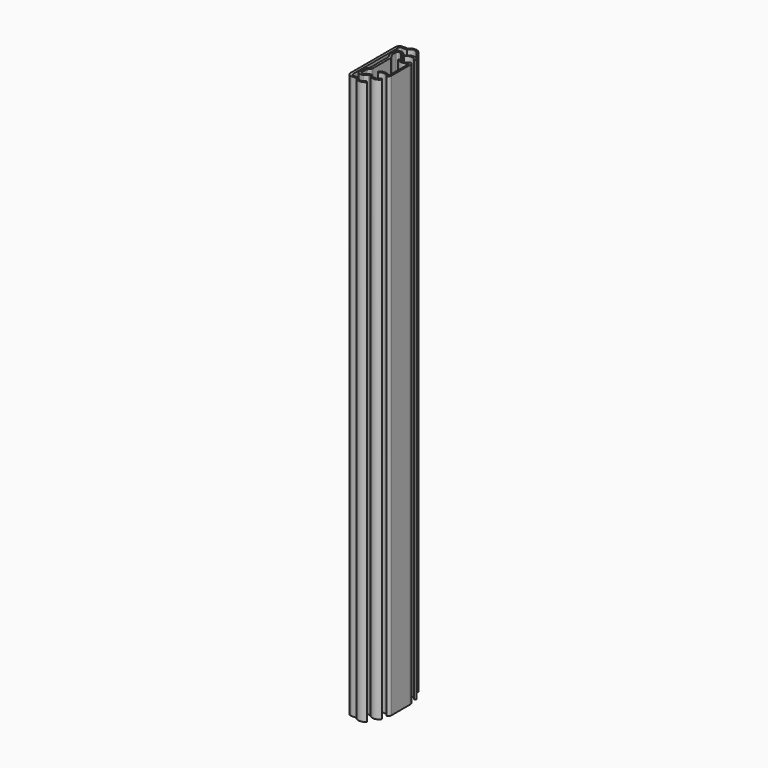
from build123d import *

# Parameters (mm, degrees)
F1_DEPTH = 250
F2_DEPTH = 250
F3_W     = 8.653239
F3_H     = 7.720554
F4_DEPTH = 5


with BuildPart() as f1:
    # F0 (on Top) → F1 (new body)
    with BuildSketch(Plane.XY):
        with BuildLine():
            Line((-137.309134, -0.924702), (-136.686638, -0.388667))
            ThreePointArc((-136.686638, -0.388667), (-139.111152, 0.734713), (-141.510949, -0.440541))
            Line((-141.510949, -0.440541), (-143.758833, -0.440541))
            ThreePointArc((-143.758833, -0.440541), (-145.03766, -0.991837), (-145.539865, -2.290726))
            Line((-145.539865, -2.290726), (-145.539865, -27.107602))
            ThreePointArc((-145.539865, -27.107602), (-145.03766, -28.406491), (-143.758833, -28.957787))
            Line((-143.758833, -28.957787), (-141.510949, -28.957787))
            ThreePointArc((-141.510949, -28.957787), (-139.111152, -30.133041), (-136.686638, -29.009661))
            Line((-136.686638, -29.009661), (-137.309134, -28.473626))
            ThreePointArc((-137.309134, -28.473626), (-139.359481, -29.417711), (-141.199708, -28.110506))
            Line((-141.199708, -28.110506), (-143.326551, -28.110506))
            ThreePointArc((-143.326551, -28.110506), (-144.088364, -27.748915), (-144.364044, -26.951979))
            Line((-144.364044, -26.951979), (-144.364044, -2.446349))
            ThreePointArc((-144.364044, -2.446349), (-144.088364, -1.649413), (-143.326551, -1.287822))
            Line((-143.326551, -1.287822), (-141.199708, -1.287822))
            ThreePointArc((-141.199708, -1.287822), (-139.359481, 0.019383), (-137.309134, -0.924702))
        make_face()
    extrude(amount=F1_DEPTH)


with BuildPart() as f2:
    # F0 (on Top) → F2 (new body)
    with BuildSketch(Plane.XY):
        with BuildLine():
            Line((-134.421453, -5.783599), (-133.850843, -5.230273))
            ThreePointArc((-133.850843, -5.230273), (-136.282789, -3.733067), (-138.848066, -4.988192))
            Line((-138.848066, -4.988192), (-139.310256, -4.988192))
            ThreePointArc((-139.310256, -4.988192), (-139.54019, -4.978449), (-139.748812, -4.88128))
            Line((-139.748812, -4.88128), (-141.006455, -3.833561))
            ThreePointArc((-141.006455, -3.833561), (-141.220469, -3.707043), (-141.45992, -3.640174))
            Line((-141.45992, -3.640174), (-142.493799, -3.640174))
            ThreePointArc((-142.493799, -3.640174), (-143.416023, -4.043703), (-143.745467, -4.994912))
            Line((-143.745467, -4.994912), (-143.745467, -7.343707))
            ThreePointArc((-143.745467, -7.343707), (-143.697942, -7.782221), (-143.492922, -8.17276))
            Line((-143.492922, -8.17276), (-142.810345, -9.37118))
            ThreePointArc((-142.810345, -9.37118), (-142.726242, -9.575669), (-142.70778, -9.796005))
            Line((-142.70778, -9.796005), (-142.70778, -19.602323))
            ThreePointArc((-142.70778, -19.602323), (-142.726242, -19.822659), (-142.810345, -20.027148))
            Line((-142.810345, -20.027148), (-143.492922, -21.225568))
            ThreePointArc((-143.492922, -21.225568), (-143.697942, -21.616107), (-143.745467, -22.054621))
            Line((-143.745467, -22.054621), (-143.745467, -24.403416))
            ThreePointArc((-143.745467, -24.403416), (-143.416023, -25.354625), (-142.493799, -25.758154))
            Line((-142.493799, -25.758154), (-141.45992, -25.758154))
            ThreePointArc((-141.45992, -25.758154), (-141.220469, -25.691284), (-141.006455, -25.564767))
            Line((-141.006455, -25.564767), (-139.748812, -24.517047))
            ThreePointArc((-139.748812, -24.517047), (-139.54019, -24.419879), (-139.310256, -24.410136))
            Line((-139.310256, -24.410136), (-138.848066, -24.410136))
            ThreePointArc((-138.848066, -24.410136), (-136.282789, -25.665261), (-133.850843, -24.168055))
            Line((-133.850843, -24.168055), (-134.421453, -23.614729))
            ThreePointArc((-134.421453, -23.614729), (-136.699606, -24.824974), (-138.953608, -23.570323))
            Line((-138.953608, -23.570323), (-139.452353, -23.570323))
            ThreePointArc((-139.452353, -23.570323), (-139.651642, -23.631075), (-139.821813, -23.751279))
            Line((-139.821813, -23.751279), (-140.999363, -24.75894))
            ThreePointArc((-140.999363, -24.75894), (-141.161457, -24.858468), (-141.34638, -24.903008))
            Line((-141.34638, -24.903008), (-142.075829, -24.903008))
            ThreePointArc((-142.075829, -24.903008), (-142.593578, -24.706761), (-142.810598, -24.197371))
            Line((-142.810598, -24.197371), (-142.810345, -22.054621))
            ThreePointArc((-142.810345, -22.054621), (-142.797704, -21.789488), (-142.687112, -21.54819))
            Line((-142.687112, -21.54819), (-141.69921, -20.00317))
            ThreePointArc((-141.69921, -20.00317), (-141.640342, -19.840411), (-141.629383, -19.66768))
            Line((-141.629383, -19.66768), (-141.629383, -9.730647))
            ThreePointArc((-141.629383, -9.730647), (-141.640342, -9.557917), (-141.69921, -9.395158))
            Line((-141.69921, -9.395158), (-142.687112, -7.850138))
            ThreePointArc((-142.687112, -7.850138), (-142.797704, -7.60884), (-142.810345, -7.343707))
            Line((-142.810345, -7.343707), (-142.810598, -5.200957))
            ThreePointArc((-142.810598, -5.200957), (-142.593578, -4.691567), (-142.075829, -4.495319))
            Line((-142.075829, -4.495319), (-141.34638, -4.495319))
            ThreePointArc((-141.34638, -4.495319), (-141.161457, -4.53986), (-140.999363, -4.639388))
            Line((-140.999363, -4.639388), (-139.821813, -5.647049))
            ThreePointArc((-139.821813, -5.647049), (-139.651642, -5.767253), (-139.452353, -5.828005))
            Line((-139.452353, -5.828005), (-138.953608, -5.828005))
            ThreePointArc((-138.953608, -5.828005), (-136.699606, -4.573354), (-134.421453, -5.783599))
        make_face()
        with BuildLine():
            ThreePointArc((-134.115353, -7.935948), (-136.061303, -9.23305), (-138.314977, -8.608434))
            Line((-138.314977, -8.608434), (-138.848066, -9.102507))
            ThreePointArc((-138.848066, -9.102507), (-136.57466, -10.01191), (-134.280056, -9.157404))
            ThreePointArc((-134.280056, -9.157404), (-134.016862, -9.395129), (-133.962363, -9.745578))
            Line((-133.962363, -9.745578), (-133.962363, -19.65275))
            ThreePointArc((-133.962363, -19.65275), (-134.016862, -20.003198), (-134.280056, -20.240923))
            ThreePointArc((-134.280056, -20.240923), (-136.57466, -19.386418), (-138.848066, -20.29582))
            Line((-138.848066, -20.29582), (-138.314977, -20.789893))
            ThreePointArc((-138.314977, -20.789893), (-136.061303, -20.165278), (-134.115353, -21.46238))
            ThreePointArc((-134.115353, -21.46238), (-133.39843, -20.818232), (-133.13891, -19.890032))
            Line((-133.13891, -19.890032), (-133.13891, -9.508296))
            ThreePointArc((-133.13891, -9.508296), (-133.39843, -8.580096), (-134.115353, -7.935948))
        make_face()
    extrude(amount=F2_DEPTH)

    # F3 (on Top) → F4 (join)
    with BuildSketch(Plane.XY):
        with Locations((-137.797169, -14.564424)):
            Rectangle(F3_W, F3_H)
    extrude(amount=F4_DEPTH)


solid = Compound([f1.part, f2.part])
